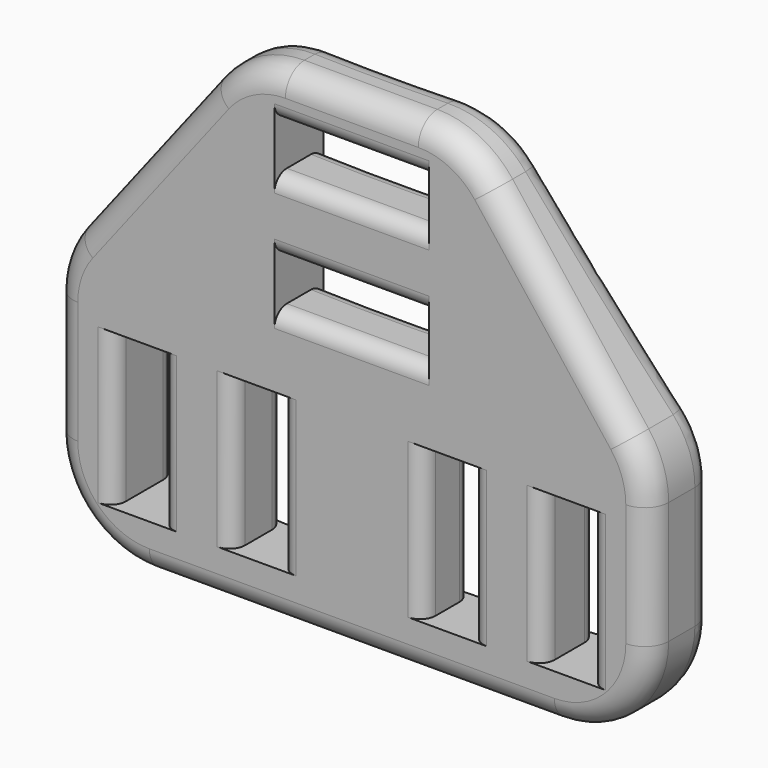
from build123d import *

# Parameters (mm, degrees)
SKETCH054_W     = 4
SKETCH054_H     = 13
SKETCH054_W_2   = 13
SKETCH054_H_2   = 4
PAD019_DEPTH    = 10
SKETCH055_R     = 150
POCKET023_DEPTH = 41.001
FILLET020_R     = 8
FILLET021_R     = 2
FILLET022_R     = 1.3


with BuildPart() as part:
    # Sketch054 → Pad019 (new body)
    with BuildSketch(Plane.XZ):
        Polygon((-25, 15.5), (-9.5, 35.5), (9.5, 35.5), (25, 15.5), (25, -5.5), (-25, -5.5), align=None)
        with Locations((-18, 5)):
            Rectangle(SKETCH054_W, SKETCH054_H, mode=Mode.SUBTRACT)
        with Locations((-8, 5)):
            Rectangle(SKETCH054_W, SKETCH054_H, mode=Mode.SUBTRACT)
        with Locations((8, 5)):
            Rectangle(SKETCH054_W, SKETCH054_H, mode=Mode.SUBTRACT)
        with Locations((18, 5)):
            Rectangle(SKETCH054_W, SKETCH054_H, mode=Mode.SUBTRACT)
        with Locations((0, 19.5)):
            Rectangle(SKETCH054_W_2, SKETCH054_H_2, mode=Mode.SUBTRACT)
        with Locations((0, 29.5)):
            Rectangle(SKETCH054_W_2, SKETCH054_H_2, mode=Mode.SUBTRACT)
    extrude(amount=PAD019_DEPTH)

    # Sketch055 (on Face2 of Pad019) → Pocket023 (cut, through all)
    with BuildSketch(Plane(origin=(0, 0, 35.5), x_dir=(-1, 0, 0), z_dir=(0, 0, 1))):
        with Locations((0, -145)):
            Circle(SKETCH055_R)
    extrude(amount=-POCKET023_DEPTH, mode=Mode.SUBTRACT)

    # Fillet020
    fillet020_edges = [part.edges().sort_by_distance(p)[0] for p in [
        (9.5, -7.349432, 35.5),
        (-9.5, -7.349432, 35.5),
        (25, -6.450997, 15.5),
        (25, -6.450997, -5.5),
        (-25, -6.450997, -5.5),
        (-25, -6.450997, 15.5),
    ]]
    fillet(fillet020_edges, radius=FILLET020_R)

    # Fillet021
    fillet021_edges = [part.edges().sort_by_distance(p)[0] for p in [
        (-17.617593, -3.961809, 25.025686),
        (-17.612688, -10, 25.032015),
    ]]
    fillet(fillet021_edges, radius=FILLET021_R)

    # Fillet022
    fillet022_edges = [part.edges().sort_by_distance(p)[0] for p in [
        (20, -3.660687, 5),
        (16, -4.144226, 5),
        (10, -4.666295, 5),
        (6, -4.879952, 5),
        (0, -5, 17.5),
        (0, -5, 21.5),
        (0, -5, 27.5),
        (0, -5, 31.5),
        (-6, -4.879952, 5),
        (-10, -4.666295, 5),
        (-16, -4.144226, 5),
        (-20, -3.660687, 5),
        (-20, -10, 5),
        (-16, -10, 5),
        (0, -10, 17.5),
        (0, -10, 21.5),
        (0, -10, 27.5),
        (0, -10, 31.5),
        (-10, -10, 5),
        (-6, -10, 5),
        (6, -10, 5),
        (10, -10, 5),
        (16, -10, 5),
        (20, -10, 5),
    ]]
    fillet(fillet022_edges, radius=FILLET022_R)


with BuildPart() as part_1:
    # Body015 placement: moved
    add(part.part.moved(Location((0, -95.8, 0))))


solid = part_1.part
